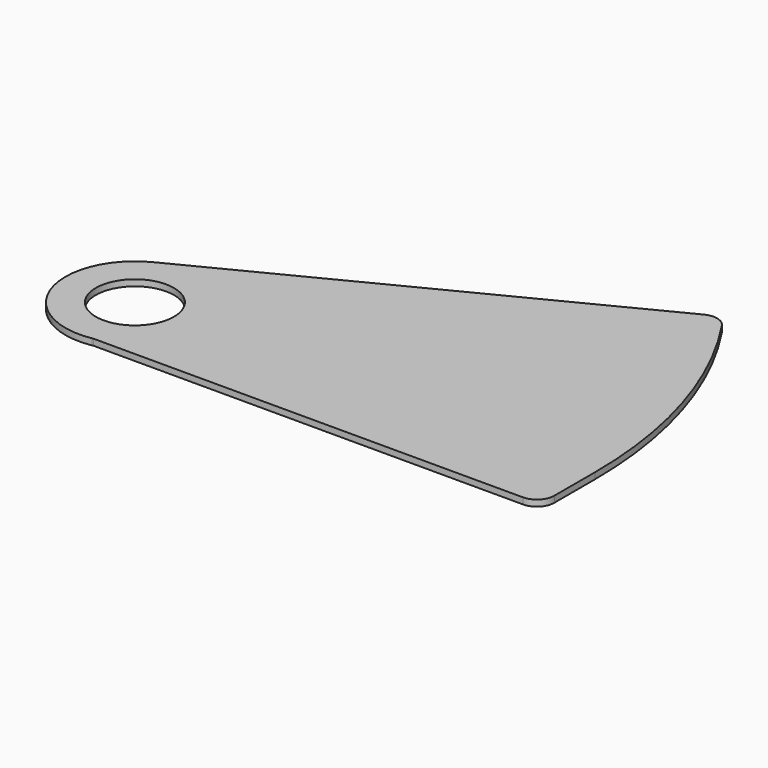
from build123d import *

# Parameters (mm, degrees)
F0_R     = 14.2875
F1_DEPTH = 2.286


with BuildPart() as f1:
    # F0 (on Top) → F1 (new body)
    with BuildSketch(Plane.XY):
        with BuildLine():
            ThreePointArc((-8.360123, -122.495806), (6.386198, -113.716984), (12.183869, -97.564316))
            ThreePointArc((12.183869, -97.564316), (0.052198, -75.905335), (-24.754041, -74.936089))
            ThreePointArc((-24.754041, -74.936089), (-34.875112, -84.295987), (-38.616131, -97.564316))
            Line((-38.616131, -97.564316), (-38.594074, -96.545842))
            ThreePointArc((-38.594074, -96.545842), (-31.353941, -114.860812), (-13.200028, -122.495806))
            Line((-13.200028, -122.495806), (-13.176682, -122.495806))
            Line((-13.176682, -122.495806), (-8.360123, -122.495806))
        make_face()
        with Locations((-13.216131, -97.564316)):
            Circle(F0_R, mode=Mode.SUBTRACT)
        with BuildLine():
            ThreePointArc((-24.754041, -74.936089), (0.052198, -75.905335), (12.183869, -97.564316))
            ThreePointArc((12.183869, -97.564316), (6.386198, -113.716984), (-8.360123, -122.495806))
            Line((-8.360123, -122.495806), (148.645369, -122.495806))
            Line((148.645369, -122.495806), (148.645369, -97.564316))
            ThreePointArc((148.645369, -97.564316), (140.703649, -47.485912), (117.657808, -2.321693))
            Line((117.657808, -2.321693), (-24.754041, -74.936089))
        make_face()
        with BuildLine():
            ThreePointArc((-8.866676, -122.589148), (-8.613163, -122.543761), (-8.360123, -122.495806))
            Line((-8.360123, -122.495806), (-13.176682, -122.495806))
            Line((-13.176682, -122.495806), (-8.866676, -122.589148))
        make_face()
        with BuildLine():
            Line((-38.594074, -96.545842), (-38.616131, -97.564316))
            ThreePointArc((-38.616131, -97.564316), (-29.566725, -117.001859), (-8.866676, -122.589148))
            Line((-8.866676, -122.589148), (-13.176682, -122.495806))
            Line((-13.176682, -122.495806), (-13.200028, -122.495806))
            ThreePointArc((-13.200028, -122.495806), (-31.353941, -114.860812), (-38.594074, -96.545842))
        make_face()
        with BuildLine():
            Line((118.499122, -1.892715), (117.657808, -2.321693))
            ThreePointArc((117.657808, -2.321693), (140.703649, -47.485912), (148.645369, -97.564316))
            Line((148.645369, -97.564316), (148.645369, -122.495806))
            Line((148.645369, -122.495806), (148.708869, -122.495806))
            ThreePointArc((148.708869, -122.495806), (153.198997, -120.635934), (155.058869, -116.145806))
            Line((155.058869, -116.145806), (155.058869, -97.564316))
            ThreePointArc((155.058869, -97.564316), (147.803234, -48.684465), (126.662021, -4.01979))
            ThreePointArc((126.662021, -4.01979), (122.984803, -1.404965), (118.499122, -1.892715))
        make_face()
    extrude(amount=F1_DEPTH)


solid = f1.part
